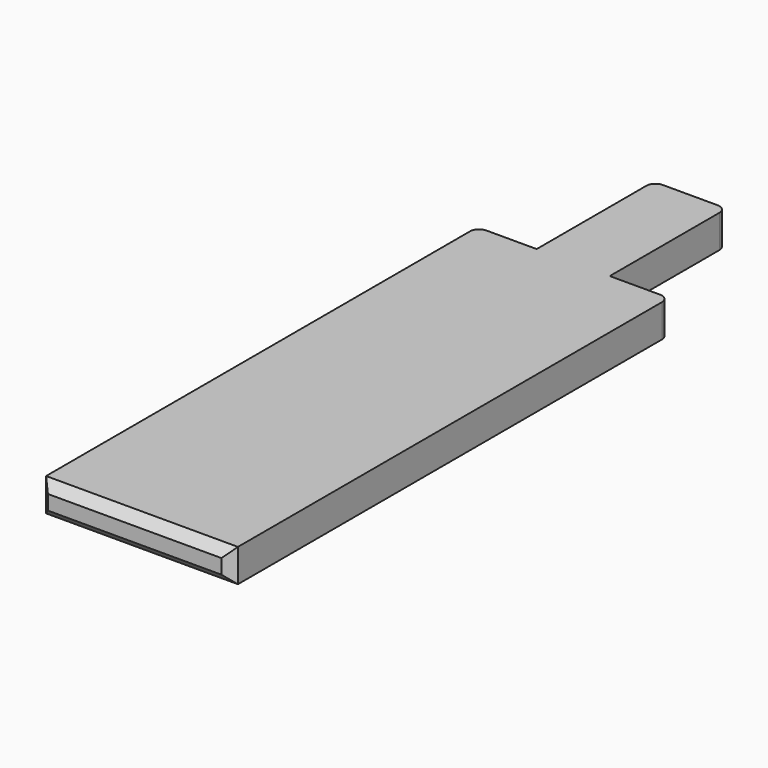
from build123d import *

# Parameters (mm, degrees)
F1_DEPTH = 1.8
F2_R     = 0.5
F3_SIZE  = 0.5


with BuildPart() as f1:
    # F0 (on Top) → F1 (new body)
    with BuildSketch(Plane.XY):
        Polygon((-5.25, -15), (5.25, -15), (5.25, 15), (2, 15), (2, 23), (0, 23), (-2, 23), (-2, 15), (-5.25, 15), align=None)
    extrude(amount=F1_DEPTH)

    # F2
    f2_edges = [f1.edges().sort_by_distance(p)[0] for p in [
        (2, 23, 0.9),
        (-2, 23, 0.9),
        (5.25, 15, 0.9),
        (-5.25, 15, 0.9),
    ]]
    fillet(f2_edges, radius=F2_R)

    # F3
    f3_edges = [f1.edges().sort_by_distance(p)[0] for p in [
        (0, -15, 0),
        (0, -15, 1.8),
        (5.25, -15, 0.9),
        (-5.25, -15, 0.9),
    ]]
    chamfer(f3_edges, length=F3_SIZE)


solid = f1.part
